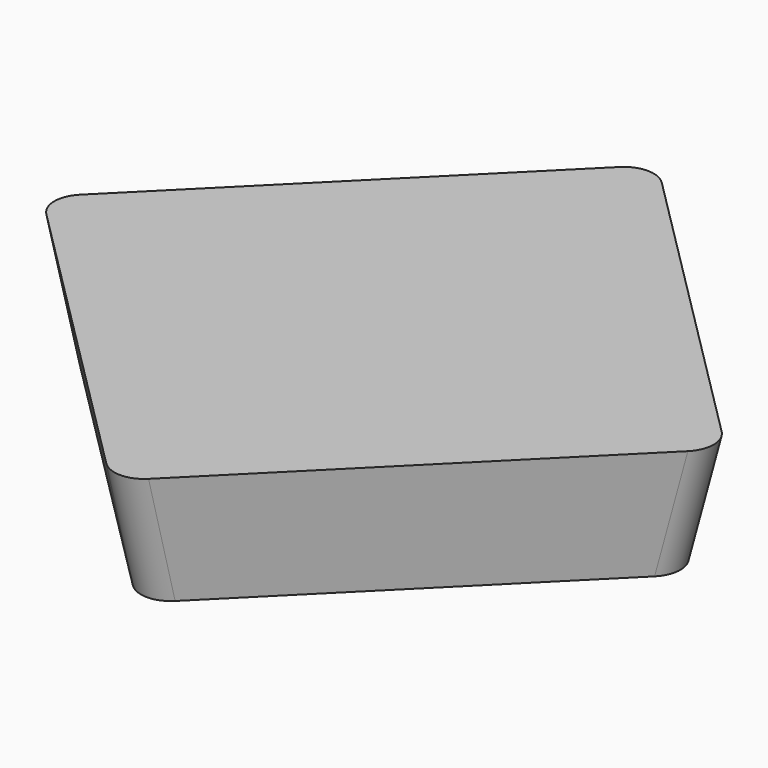
from build123d import *

# Parameters (mm, degrees)
F0_W     = 12.7
F0_H     = 12.7
F1_DEPTH = 3.18
F3_DEPTH = 12.701
F5_DEPTH = 6.5
F6_R     = 0.8
F7_ANGLE = 45


with BuildPart() as f1:
    # F0 (on Top) → F1 (new body)
    with BuildSketch(Plane.XY):
        Rectangle(F0_W, F0_H)
    extrude(amount=F1_DEPTH)

    # F2 (on face) → F3 (cut, through all)
    with BuildSketch(Plane.XZ.offset(6.35)):
        Polygon((6.35, 0), (6.35, 3.18), (5.7318706169, 0), align=None)
        Polygon((-5.7318706169, 0), (-6.35, 3.18), (-6.35, 0), align=None)
    extrude(amount=-F3_DEPTH, mode=Mode.SUBTRACT)

    # F4 (on Right) → F5 (cut, symmetric)
    with BuildSketch(Plane.YZ):
        Polygon((6.35, 0), (6.35, 3.18), (5.7318706169, 0), align=None)
        Polygon((-5.7318706169, 0), (-6.35, 3.18), (-6.35, 0), align=None)
    extrude(amount=F5_DEPTH, both=True, mode=Mode.SUBTRACT)

    # F6
    f6_edges = [f1.edges().sort_by_distance(p)[0] for p in [
        (6.040935, -6.040935, 1.59),
        (-6.040935, -6.040935, 1.59),
        (6.040935, 6.040935, 1.59),
        (-6.040935, 6.040935, 1.59),
    ]]
    fillet(f6_edges, radius=F6_R)


with BuildPart() as f1_1:
    # F7: moved
    add(f1.part.rotate(Axis((0, 0, 0.6975659635), (0, 0, 1)), F7_ANGLE))


solid = f1_1.part
